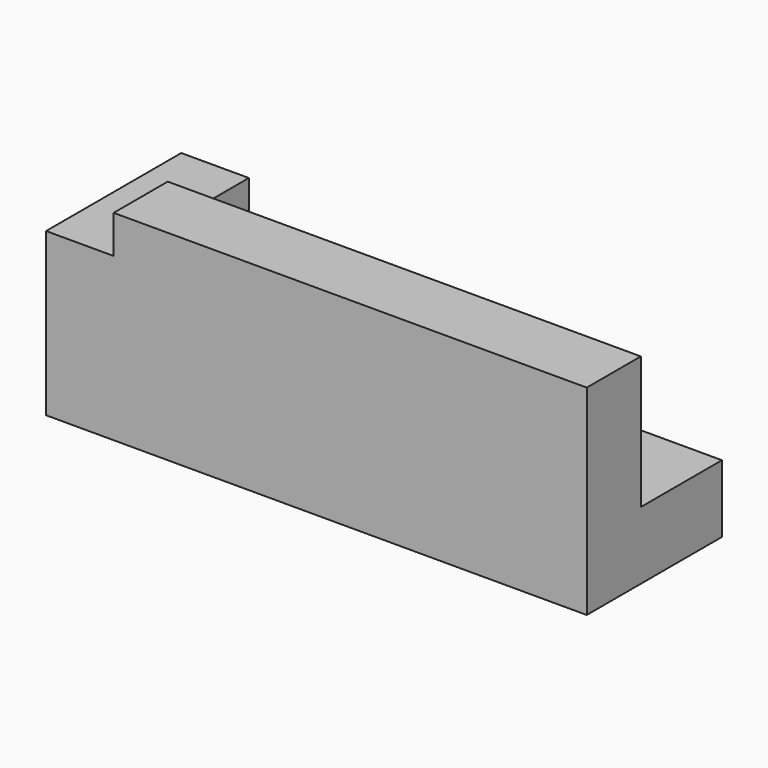
from build123d import *

# Parameters (mm, degrees)
F2_DEPTH = 3.175
F0_W     = 44.45
F0_H     = 6.35
F4_DEPTH = 6.35
F3_W     = 12.7
F3_H     = 15.24
F5_DEPTH = 6.35


with BuildPart() as f2:
    # F1 (on Front) → F2 (new body, symmetric)
    with BuildSketch(Plane.XZ):
        Polygon((0, 15.24), (0, 0), (50.8, 0), (50.8, 6.109729), (50.8, 18.809729), (6.35, 18.809729), (6.35, 15.24), align=None)
    extrude(amount=F2_DEPTH, both=True)

    # F0 (on Top) → F4 (join)
    with BuildSketch(Plane.XY):
        with Locations((28.575, 3.175)):
            Rectangle(F0_W, F0_H)
        Polygon((0, 0), (6.35, 0), (6.35, 6.35), (6.35, 12.7), (0, 12.7), align=None)
        with Locations((28.575, 9.525)):
            Rectangle(F0_W, F0_H)
    extrude(amount=F4_DEPTH)

    # F3 (on Right) → F5 (join)
    with BuildSketch(Plane.YZ):
        with Locations((6.35, 7.62)):
            Rectangle(F3_W, F3_H)
    extrude(amount=F5_DEPTH)


solid = f2.part
